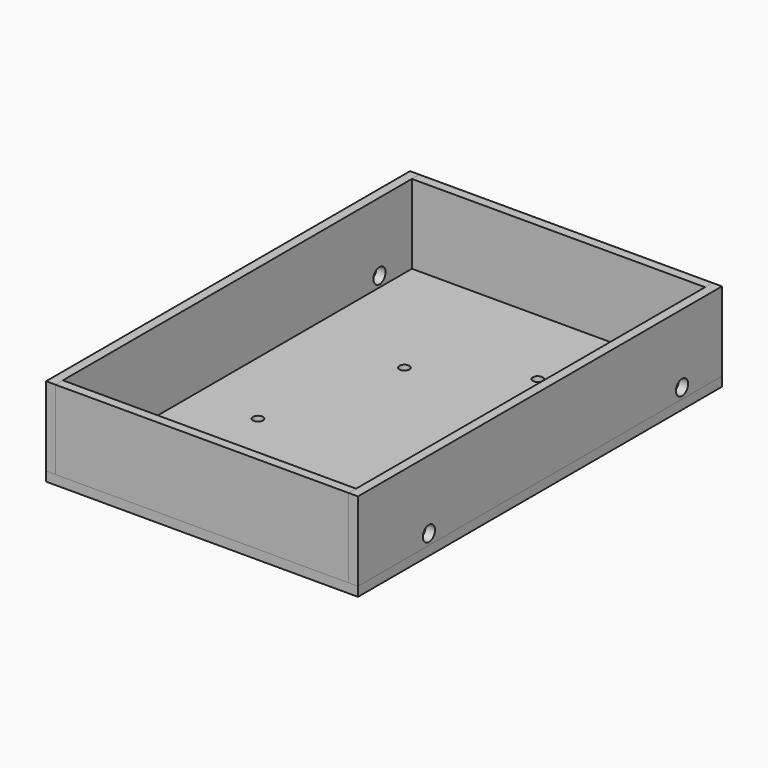
from build123d import *

# Parameters (mm, degrees)
BOX003_W          = 94.16
BOX003_H          = 3
BOX003_DEPTH      = 25.4
BOX004_W          = 94.16
BOX004_H          = 3
BOX004_DEPTH      = 25.4
CYLINDER002_R     = 1.6
CYLINDER002_DEPTH = 3
ARRAY002_X_COUNT  = 2
ARRAY002_X_PITCH  = 34
CYLINDER001_R     = 1.6
CYLINDER001_DEPTH = 3
ARRAY001_X_COUNT  = 2
ARRAY001_X_PITCH  = 52.7
ARRAY001_Y_COUNT  = 2
ARRAY001_Y_PITCH  = 25.4
BOX_W             = 100.16
BOX_H             = 146.1
BOX_DEPTH         = 3
CYLINDER_R        = 2.45
CYLINDER_DEPTH    = 3
ARRAY_X_COUNT     = 2
ARRAY_X_PITCH     = 97.16
ARRAY_Y_COUNT     = 2
ARRAY_Y_PITCH     = 101.6
BOX002_W          = 3
BOX002_H          = 146.1
BOX002_DEPTH      = 25.4
BOX001_W          = 3
BOX001_H          = 146.1
BOX001_DEPTH      = 25.4


with BuildPart() as front:
    # Box003 → Box003 (new body)
    with BuildSketch(Plane(origin=(3, 0, 3), x_dir=(1, 0, 0), z_dir=(0, 0, 1))):
        with Locations((47.08, 1.5)):
            Rectangle(BOX003_W, BOX003_H)
    extrude(amount=BOX003_DEPTH)


with BuildPart() as back:
    # Box004 → Box004 (new body)
    with BuildSketch(Plane(origin=(3, 143.1, 3), x_dir=(1, 0, 0), z_dir=(0, 0, 1))):
        with Locations((47.08, 1.5)):
            Rectangle(BOX004_W, BOX004_H)
    extrude(amount=BOX004_DEPTH)


with BuildPart() as psuholes:
    # Cylinder002 → Cylinder002 (new body)
    with BuildSketch(Plane.XY):
        Circle(CYLINDER002_R)
    extrude(amount=CYLINDER002_DEPTH)

    # Array002 X: PSUHoles ×2


with BuildPart() as psuholes_1:
    add(psuholes.part)
    with Locations(*[Vector(0.882353, 0.470588, 0) * (i * ARRAY002_X_PITCH) for i in range(1, ARRAY002_X_COUNT)]):
        add(psuholes.part)


with BuildPart() as psuholes_2:
    # Array002 placement: moved
    add(psuholes_1.part.moved(Location((35.08, 100, 0))))


with BuildPart() as holes:
    # Cylinder001 → Cylinder001 (new body)
    with BuildSketch(Plane.XY):
        Circle(CYLINDER001_R)
    extrude(amount=CYLINDER001_DEPTH)

    # Array001 X: holes ×2


with BuildPart() as holes_1:
    add(holes.part)
    with Locations(*[(i * ARRAY001_X_PITCH, 0, 0) for i in range(1, ARRAY001_X_COUNT)]):
        add(holes.part)

    # Array001 Y: holes ×2


with BuildPart() as holes_2:
    add(holes_1.part)
    with Locations(*[(0, i * ARRAY001_Y_PITCH, 0) for i in range(1, ARRAY001_Y_COUNT)]):
        add(holes_1.part)


with BuildPart() as holes_3:
    # Array001 placement: moved
    add(holes_2.part.moved(Location((23.73, 30, 0))))

    # Compound001: union PSUHoles
    add(psuholes_2.part)


with BuildPart() as obj1:
    # Box → Box (new body)
    with BuildSketch(Plane.XY):
        with Locations((50.08, 73.05)):
            Rectangle(BOX_W, BOX_H)
    extrude(amount=BOX_DEPTH)

    # Cut: cut holes
    add(holes_3.part, mode=Mode.SUBTRACT)


with BuildPart() as mountingholes:
    # Cylinder → Cylinder (new body)
    with BuildSketch(Plane(origin=(0, 28.5, 6.35), x_dir=(0, 0, -1), z_dir=(1, 0, 0))):
        Circle(CYLINDER_R)
    extrude(amount=CYLINDER_DEPTH)

    # Array X: mountingHoles ×2


with BuildPart() as mountingholes_1:
    add(mountingholes.part)
    with Locations(*[(i * ARRAY_X_PITCH, 0, 0) for i in range(1, ARRAY_X_COUNT)]):
        add(mountingholes.part)

    # Array Y: mountingHoles ×2


with BuildPart() as mountingholes_2:
    add(mountingholes_1.part)
    with Locations(*[(0, i * ARRAY_Y_PITCH, 0) for i in range(1, ARRAY_Y_COUNT)]):
        add(mountingholes_1.part)


with BuildPart() as obj2:
    # Box002 → Box002 (new body)
    with BuildSketch(Plane(origin=(97.16, 0, 3), x_dir=(1, 0, 0), z_dir=(0, 0, 1))):
        with Locations((1.5, 73.05)):
            Rectangle(BOX002_W, BOX002_H)
    extrude(amount=BOX002_DEPTH)


with BuildPart() as obj3:
    # Box001 → Box001 (new body)
    with BuildSketch(Plane.XY.offset(3)):
        with Locations((1.5, 73.05)):
            Rectangle(BOX001_W, BOX001_H)
    extrude(amount=BOX001_DEPTH)

    # Compound002: union obj2
    add(obj2.part)

    # Cut001: cut mountingHoles
    add(mountingholes_2.part, mode=Mode.SUBTRACT)


solid = Compound([front.part, back.part, obj1.part, obj3.part])
